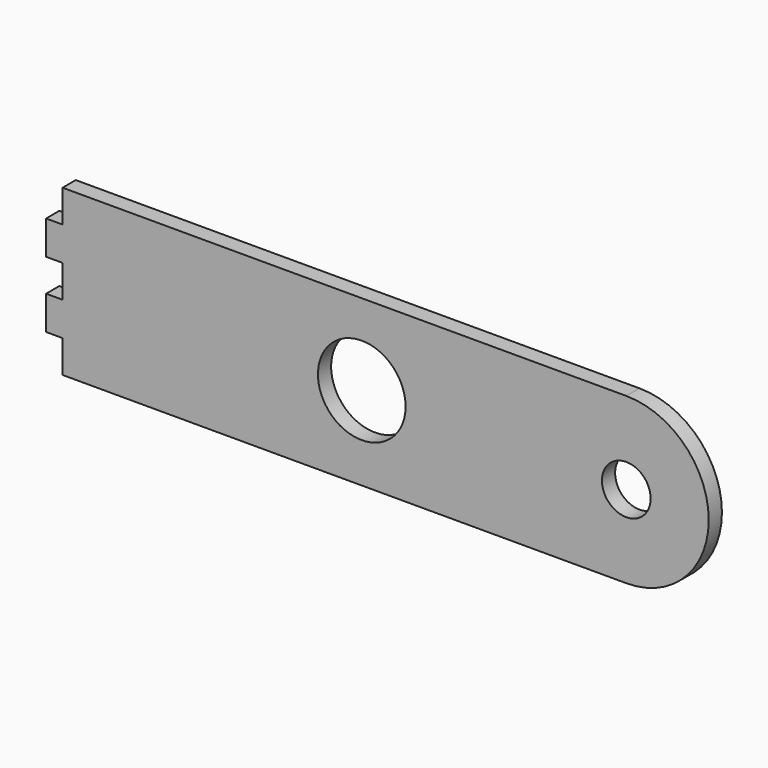
from build123d import *

# Parameters (mm, degrees)
F0_R     = 13.5
F0_R_2   = 7.5
F1_DEPTH = 5.08


with BuildPart() as f1:
    # F0 (on Front) → F1 (new body)
    with BuildSketch(Plane.XZ):
        with BuildLine():
            Line((5.08, 0), (178.75, 0))
            ThreePointArc((178.75, 0), (204.15, 25.4), (178.75, 50.8))
            Line((178.75, 50.8), (5.08, 50.8))
            Line((5.08, 50.8), (5.08, 40.8))
            Line((5.08, 40.8), (0, 40.8))
            Line((0, 40.8), (0, 30.4))
            Line((0, 30.4), (5.08, 30.4))
            Line((5.08, 30.4), (5.08, 20.4))
            Line((5.08, 20.4), (0, 20.4))
            Line((0, 20.4), (0, 10))
            Line((0, 10), (5.08, 10))
            Line((5.08, 10), (5.08, 0))
        make_face()
        with Locations((97.259023, 25.8)):
            Circle(F0_R, mode=Mode.SUBTRACT)
        with Locations((178.75, 25.4)):
            Circle(F0_R_2, mode=Mode.SUBTRACT)
    extrude(amount=F1_DEPTH)


solid = f1.part
